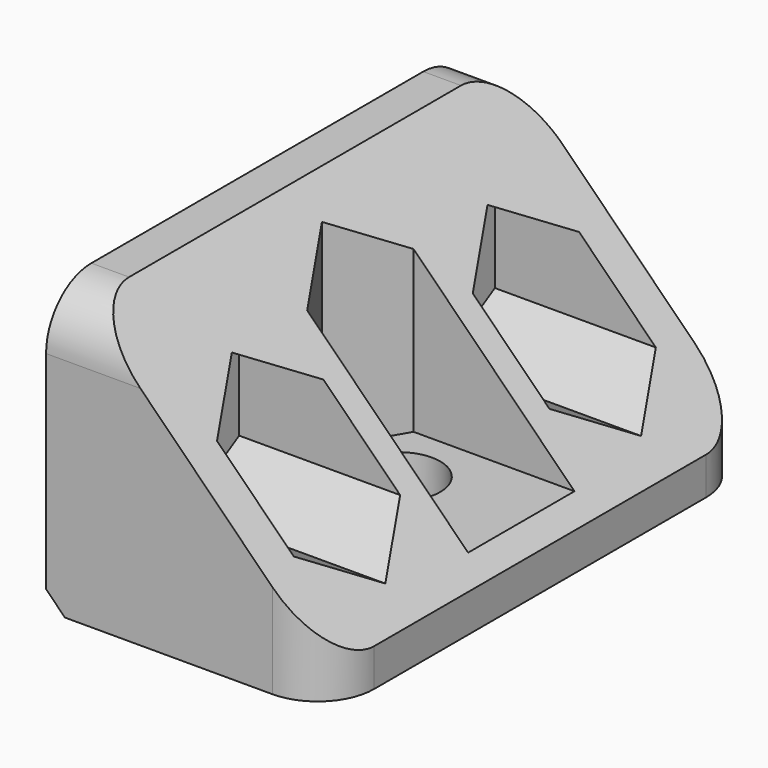
from build123d import *

# Parameters (mm, degrees)
SKETCH_W        = 15
SKETCH_H        = 28
PAD_DEPTH       = 15
SKETCH001_R     = 2.2
POCKET_DEPTH    = 15.001
POCKET001_DEPTH = 12
SKETCH003_R     = 2.2
POCKET002_DEPTH = 15.001
POCKET003_DEPTH = 12
POCKET004_DEPTH = 28.001
FILLET_R        = 3
CHAMFER_SIZE    = 1


with BuildPart() as part:
    # Sketch → Pad (new body)
    with BuildSketch(Plane.XY):
        Rectangle(SKETCH_W, SKETCH_H)
    extrude(amount=PAD_DEPTH)

    # Sketch001 → Pocket (cut, through all)
    with BuildSketch(Plane.YZ.offset(7.5)):
        with Locations((-8.475, 7.5)):
            Circle(SKETCH001_R)
        with Locations((8.475, 7.5)):
            Circle(SKETCH001_R)
    extrude(amount=-POCKET_DEPTH, mode=Mode.SUBTRACT)

    # Sketch002 → Pocket001 (cut)
    with BuildSketch(Plane.YZ.offset(7.5)):
        Polygon((-8.475, 3.429681), (-4.95, 5.46484), (-4.95, 9.53516), (-8.475, 11.570319), (-12, 9.53516), (-12, 5.46484), align=None)
        Polygon((8.475, 3.429681), (12, 5.46484), (12, 9.53516), (8.475, 11.570319), (4.95, 9.53516), (4.95, 5.46484), align=None)
    extrude(amount=-POCKET001_DEPTH, mode=Mode.SUBTRACT)

    # Sketch003 → Pocket002 (cut, through all)
    with BuildSketch(Plane.XY.offset(15)):
        Circle(SKETCH003_R)
    extrude(amount=-POCKET002_DEPTH, mode=Mode.SUBTRACT)

    # Sketch004 → Pocket003 (cut)
    with BuildSketch(Plane.XY.offset(15)):
        Polygon((2.03516, 3.525), (-2.03516, 3.525), (-4.070319, 0), (-2.03516, -3.525), (2.03516, -3.525), (7.53516, -3.525), (7.53516, 3.525), align=None)
    extrude(amount=-POCKET003_DEPTH, mode=Mode.SUBTRACT)

    # Sketch005 → Pocket004 (cut, through all)
    with BuildSketch(Plane.XZ.offset(14)):
        Polygon((7.5, 15), (7.5, 2), (-5.5, 15), align=None)
    extrude(amount=-POCKET004_DEPTH, mode=Mode.SUBTRACT)

    # Fillet
    fillet_edges = [part.edges().sort_by_distance(p)[0] for p in [
        (7.5, 14, 1),
        (7.5, -14, 1),
        (-6.5, -14, 15),
        (-6.5, 14, 15),
    ]]
    fillet(fillet_edges, radius=FILLET_R)

    # Chamfer
    chamfer_edges = [part.edges().sort_by_distance(p)[0] for p in [
        (-7.5, 0, 0),
    ]]
    chamfer(chamfer_edges, length=CHAMFER_SIZE)


solid = part.part
